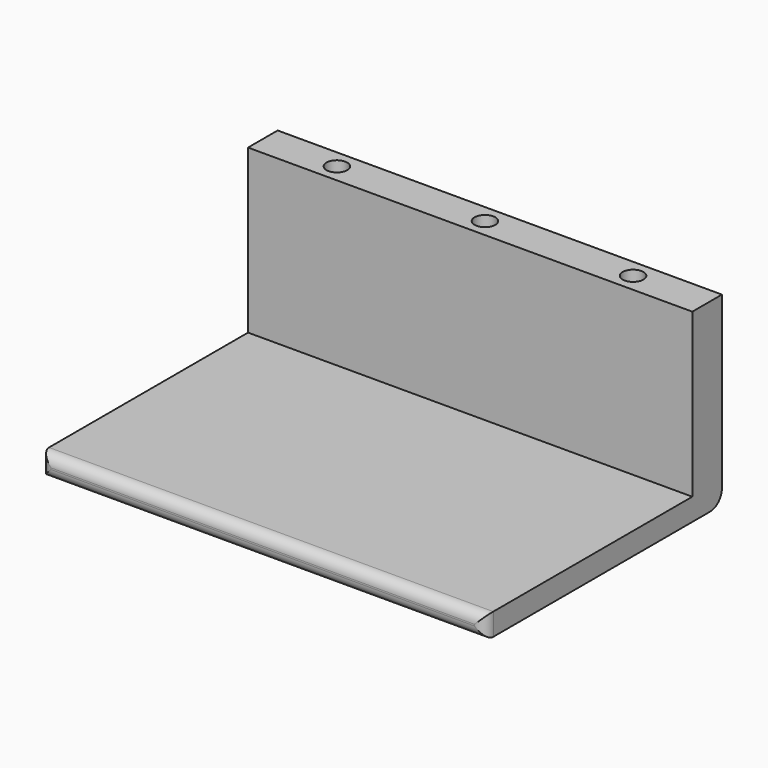
from build123d import *

# Parameters (mm, degrees)
SKETCH010_W     = 60
SKETCH010_H     = 5
PAD005_DEPTH    = 22
SKETCH011_W     = 60
SKETCH011_H     = 40
PAD006_DEPTH    = 3
FILLET_R        = 2
FILLET001_R     = 1.4
SKETCH012_R     = 1.4
POCKET005_DEPTH = 15


with BuildPart() as part:
    # Sketch010 → Pad005 (new body)
    with BuildSketch(Plane.XY):
        with Locations((0, 12.5)):
            Rectangle(SKETCH010_W, SKETCH010_H)
    extrude(amount=-PAD005_DEPTH)

    # Sketch011 (on Face6 of Pad005) → Pad006 (join)
    with BuildSketch(Plane(origin=(0, 0, -22), x_dir=(1, 0, 0), z_dir=(0, 0, -1))):
        with Locations((0, 5)):
            Rectangle(SKETCH011_W, SKETCH011_H)
    extrude(amount=PAD006_DEPTH)

    # Fillet
    fillet_edges = [part.edges().sort_by_distance(p)[0] for p in [
        (0, 15, -25),
    ]]
    fillet(fillet_edges, radius=FILLET_R)

    # Fillet001
    fillet001_edges = [part.edges().sort_by_distance(p)[0] for p in [
        (30, -25, -23.5),
        (-30, -25, -23.5),
        (0, -25, -22),
        (0, -25, -25),
    ]]
    fillet(fillet001_edges, radius=FILLET001_R)

    # Sketch012 (on Face14 of Fillet001) → Pocket005 (cut)
    with BuildSketch(Plane.XY):
        with Locations((-20, 12.5)):
            Circle(SKETCH012_R)
        with Locations((0, 12.5)):
            Circle(SKETCH012_R)
        with Locations((20, 12.5)):
            Circle(SKETCH012_R)
    extrude(amount=-POCKET005_DEPTH, mode=Mode.SUBTRACT)


solid = part.part
